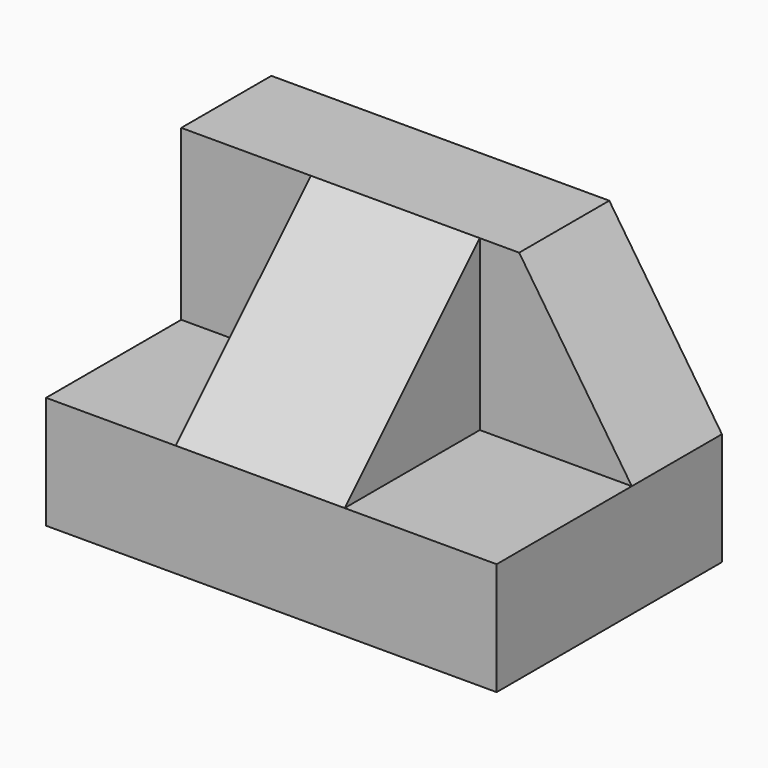
from build123d import *

# Parameters (mm, degrees)
F0_W     = 31.75
F0_H     = 12.7
F1_DEPTH = 50.8
F2_W     = 50.8
F2_H     = 19.05
F3_DEPTH = 12.7
F5_DEPTH = 25.4
F6_W     = 19.05
F6_H     = 19.05
F7_DEPTH = 19.05
F9_DEPTH = 25.4


with BuildPart() as f1:
    # F0 (on Right) → F1 (new body)
    with BuildSketch(Plane.YZ):
        with Locations((15.875, 6.35)):
            Rectangle(F0_W, F0_H)
    extrude(amount=F1_DEPTH)


with BuildPart() as f3:
    # F2 (on face) → F3 (new body)
    with BuildSketch(Plane(origin=(0, 31.75, 0), x_dir=(-1, 0, 0), z_dir=(0, 1, 0))):
        with Locations((-25.4, 22.225)):
            Rectangle(F2_W, F2_H)
    extrude(amount=-F3_DEPTH)

    # F4 (on face) → F5 (cut)
    with BuildSketch(Plane.XZ.offset(-19.05)):
        Polygon((50.8, 31.75), (38.1, 31.75), (50.8, 12.7), align=None)
    extrude(amount=-F5_DEPTH, mode=Mode.SUBTRACT)


with BuildPart() as f7:
    # F6 (on face) → F7 (new body)
    with BuildSketch(Plane.XY.offset(12.7)):
        with Locations((24.136756, 9.525)):
            Rectangle(F6_W, F6_H)
    extrude(amount=F7_DEPTH)

    # F8 (on face) → F9 (cut)
    with BuildSketch(Plane.YZ.offset(33.661756)):
        Polygon((0, 12.7), (19.05, 31.75), (0, 31.75), align=None)
    extrude(amount=-F9_DEPTH, mode=Mode.SUBTRACT)


solid = Compound([f1.part, f3.part, f7.part])
